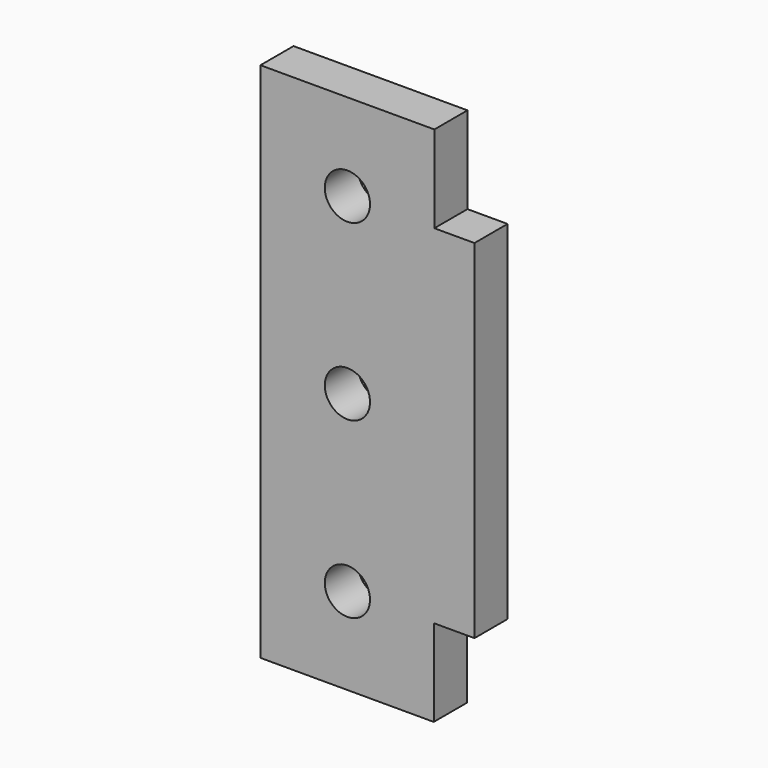
from build123d import *

# Parameters (mm, degrees)
F0_R     = 1.651
F1_DEPTH = 3.0226


with BuildPart() as f1:
    # F0 (on Front) → F1 (new body)
    with BuildSketch(Plane.XZ):
        Polygon((0, -25.4), (0, 0), (-2.928276, 0), (-2.928276, 6.35), (-15.628276, 6.35), (-15.628276, -31.75), (-2.9718, -31.75), (-2.9718, -25.4), align=None)
        with Locations((-9.278276, -25.4)):
            Circle(F0_R, mode=Mode.SUBTRACT)
        with Locations((-9.278276, -12.7)):
            Circle(F0_R, mode=Mode.SUBTRACT)
        with Locations((-9.278276, 0)):
            Circle(F0_R, mode=Mode.SUBTRACT)
    extrude(amount=F1_DEPTH)


solid = f1.part
